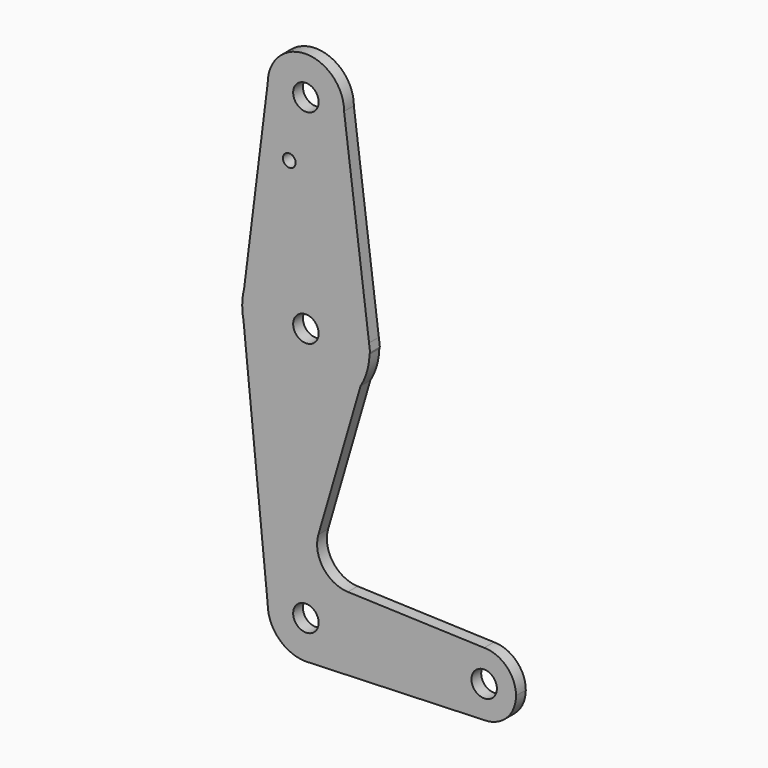
from build123d import *

# Parameters (mm, degrees)
F0_R     = 3.175
F0_R_2   = 1.5875
F1_DEPTH = 3.048


with BuildPart() as f1:
    # F0 (on Front) → F1 (new body)
    with BuildSketch(Plane.XZ):
        with BuildLine():
            ThreePointArc((-9.525, 114.3), (0, 104.775), (9.525, 114.3))
            ThreePointArc((9.525, 114.3), (0, 123.825), (-9.525, 114.3))
        make_face()
        with Locations((0, 114.3)):
            Circle(F0_R, mode=Mode.SUBTRACT)
        with BuildLine():
            Line((15.7474569502, 65.5082889734), (9.525, 114.3))
            ThreePointArc((9.525, 114.3), (0, 104.775), (-9.525, 114.3))
            Line((-9.525, 114.3), (-15.3865384615, 67.4076923077))
            ThreePointArc((-15.3865384615, 67.4076923077), (0.9666947789, 79.3455396312), (15.7474569502, 65.5082889734))
        make_face()
        with Locations((-4.1384492069, 99.0805253386)):
            Circle(F0_R_2, mode=Mode.SUBTRACT)
        with BuildLine():
            Line((16.0035761028, 63.5), (15.7474569502, 65.5082889734))
            ThreePointArc((15.7474569502, 65.5082889734), (15.843082151, 64.50616746), (15.875, 63.5))
            ThreePointArc((15.875, 63.5), (15.8733056435, 63.268066935), (15.8682229359, 63.036183379))
            Line((15.8682229359, 63.036183379), (16.0035761028, 63.5))
        make_face()
        with BuildLine():
            ThreePointArc((15.875, 63.5), (15.843082151, 64.50616746), (15.7474569502, 65.5082889734))
            ThreePointArc((15.7474569502, 65.5082889734), (0.9666947789, 79.3455396312), (-15.3865384615, 67.4076923077))
            Line((-15.3865384615, 67.4076923077), (-15.875, 63.5))
            Line((-15.875, 63.5), (-15.5606435644, 60.3564356436))
            ThreePointArc((-15.5606435644, 60.3564356436), (-2.6804602458, 47.852931333), (13.6270612691, 55.3563628416))
            Line((13.6270612691, 55.3563628416), (15.8682229359, 63.036183379))
            ThreePointArc((15.8682229359, 63.036183379), (15.8733056435, 63.268066935), (15.875, 63.5))
        make_face()
        with Locations((0, 63.5)):
            Circle(F0_R, mode=Mode.SUBTRACT)
        with BuildLine():
            Line((-15.875, 63.5), (-15.3865384615, 67.4076923077))
            ThreePointArc((-15.3865384615, 67.4076923077), (-15.7524112928, 65.4690514116), (-15.875, 63.5))
        make_face()
        with BuildLine():
            Line((-15.5606435644, 60.3564356436), (-15.875, 63.5))
            ThreePointArc((-15.875, 63.5), (-15.7962153946, 61.9203784605), (-15.5606435644, 60.3564356436))
        make_face()
        with BuildLine():
            ThreePointArc((13.6270612691, 55.3563628416), (15.2393522978, 59.0527799082), (15.8682229359, 63.036183379))
            Line((15.8682229359, 63.036183379), (13.6270612691, 55.3563628416))
        make_face()
        with BuildLine():
            ThreePointArc((13.6270612691, 55.3563628416), (-2.6804602458, 47.852931333), (-15.5606435644, 60.3564356436))
            Line((-15.5606435644, 60.3564356436), (-9.525, 0))
            ThreePointArc((-9.525, 0), (0, 9.525), (9.525, 0))
            ThreePointArc((9.525, 0), (6.9712901065, -6.4905114784), (0.6794904459, -9.5007324841))
            Line((0.6794904459, -9.5007324841), (44.45, -7.9375))
            ThreePointArc((44.45, -7.9375), (36.5125, 0), (44.45, 7.9375))
            Line((44.45, 7.9375), (10.4599609056, 9.1514299677))
            ThreePointArc((10.4599609056, 9.1514299677), (4.2990897641, 12.4411938232), (3.1118480807, 19.3237323543))
            Line((3.1118480807, 19.3237323543), (13.6270612691, 55.3563628416))
        make_face()
        with BuildLine():
            ThreePointArc((9.525, 0), (0, 9.525), (-9.525, 0))
            ThreePointArc((-9.525, 0), (-6.7351920908, -6.7351920908), (0, -9.525))
            Line((0, -9.525), (0.6794904459, -9.5007324841))
            ThreePointArc((0.6794904459, -9.5007324841), (6.9712901065, -6.4905114784), (9.525, 0))
        make_face()
        Circle(F0_R, mode=Mode.SUBTRACT)
        with BuildLine():
            Line((0.6794904459, -9.5007324841), (0, -9.525))
            ThreePointArc((0, -9.525), (0.3399618281, -9.5189311877), (0.6794904459, -9.5007324841))
        make_face()
        with BuildLine():
            ThreePointArc((52.3875, 0), (50.0626600757, 5.6126600757), (44.45, 7.9375))
            ThreePointArc((44.45, 7.9375), (36.5125, 0), (44.45, -7.9375))
            ThreePointArc((44.45, -7.9375), (50.0626600757, -5.6126600757), (52.3875, 0))
        make_face()
        with Locations((44.45, 0)):
            Circle(F0_R, mode=Mode.SUBTRACT)
    extrude(amount=F1_DEPTH)


solid = f1.part
